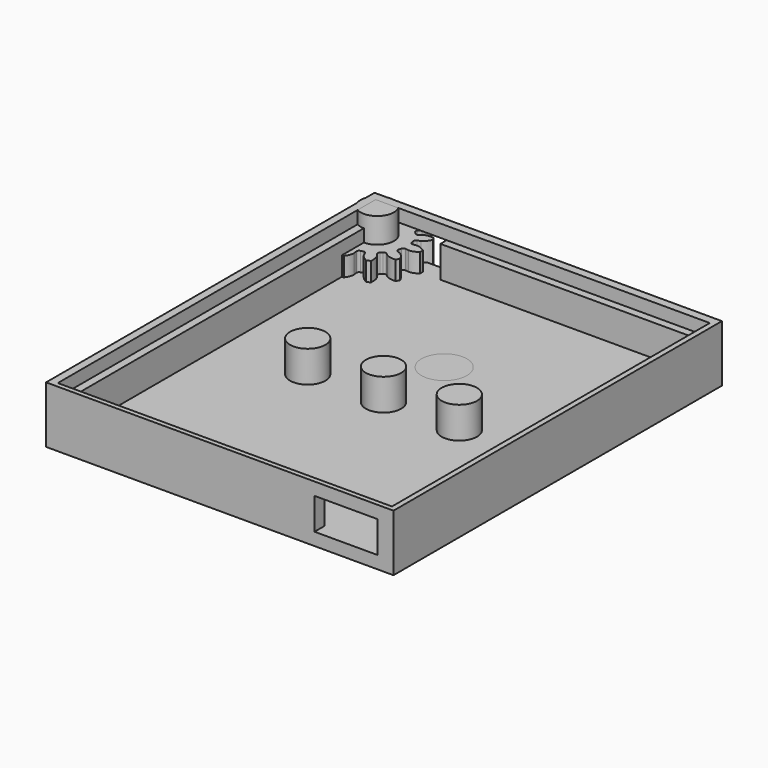
from build123d import *

# Parameters (mm, degrees)
SKETCH_W        = 50
SKETCH_H        = 60
PAD_DEPTH       = 2
SKETCH001_R     = 2.8
PAD001_DEPTH    = 5
SKETCH002_R     = 2.8
POCKET_DEPTH    = 10
PAD002_DEPTH    = 5
SKETCH003_R     = 2.65
PAD003_DEPTH    = 4
PAD004_DEPTH    = 5
SKETCH005_W     = 55
SKETCH005_H     = 65
PAD005_DEPTH    = 9
SKETCH006_W     = 50.4
SKETCH006_H     = 60.4
POCKET001_DEPTH = 7
SKETCH007_W     = 10
SKETCH007_H     = 5
POCKET002_DEPTH = 2.590111
SKETCH008_W     = 10
SKETCH008_H     = 5
POCKET003_DEPTH = 2.009889
SKETCH009_W     = 52.9
SKETCH009_H     = 62.9
POCKET004_DEPTH = 2
SKETCH010_R     = 3.6
POCKET005_DEPTH = 5


with BuildPart() as body:
    # Sketch → Pad (new body)
    with BuildSketch(Plane.XY):
        with Locations((25, -30)):
            Rectangle(SKETCH_W, SKETCH_H)
    extrude(amount=PAD_DEPTH)

    # Sketch001 (on Face6 of Pad) → Pad001 (join)
    with BuildSketch(Plane.XY.offset(2)):
        with Locations((13, -30)):
            Circle(SKETCH001_R)
        with Locations((25, -30)):
            Circle(SKETCH001_R)
        with Locations((37, -30)):
            Circle(SKETCH001_R)
        with Locations((25, -42)):
            Circle(SKETCH001_R)
    extrude(amount=PAD001_DEPTH)

    # Sketch002 (on Face11 of Pad001) → Pocket (cut)
    with BuildSketch(Plane.XY.offset(7)):
        with Locations((25, -42)):
            Circle(SKETCH002_R)
    extrude(amount=-POCKET_DEPTH, mode=Mode.SUBTRACT)


with BuildPart() as body001:
    # InvoluteGear → Pad002 (new body)
    with BuildSketch(Plane.XY):
        with BuildLine():
            Line((5.075568, -0.745328), (5.593622, -0.820636))
            add(Edge.make_bspline(
                [(5.593622, -0.820636), (5.662225, -0.823766), (5.937134, -0.826624), (6.422793, -0.700099), (6.993094, -0.308894)],
                knots=[0, 0, 0, 0, 0, 1, 1, 1, 1, 1], degree=4))
            ThreePointArc((6.993094, -0.308894), (6.999956, 0.000727), (6.993117, 0.310347))
            add(Edge.make_bspline(
                [(6.993117, 0.310347), (6.422793, 0.700099), (5.937134, 0.826624), (5.662225, 0.823766), (5.593622, 0.820636)],
                knots=[0, 0, 0, 0, 0, 1, 1, 1, 1, 1], degree=4))
            Line((5.593622, 0.820636), (5.075568, 0.745328))
            ThreePointArc((5.075568, 0.745328), (4.797245, 0.801779), (4.635779, 1.0354))
            ThreePointArc((4.635779, 1.0354), (4.588148, 1.22939), (4.532402, 1.421207))
            ThreePointArc((4.532402, 1.421207), (4.555425, 1.704262), (4.768234, 1.892311))
            Line((4.768234, 1.892311), (5.254537, 2.086119))
            add(Edge.make_bspline(
                [(5.254537, 2.086119), (5.315514, 2.117711), (5.555021, 2.25269), (5.912351, 2.605093), (6.210644, 3.229037)],
                knots=[0, 0, 0, 0, 0, 1, 1, 1, 1, 1], degree=4))
            ThreePointArc((6.210644, 3.229037), (6.061777, 3.500607), (5.901043, 3.765327))
            add(Edge.make_bspline(
                [(5.901043, 3.765327), (5.212252, 3.8177), (4.728397, 3.684444), (4.491748, 3.544515), (4.433901, 3.507503)],
                knots=[0, 0, 0, 0, 0, 1, 1, 1, 1, 1], degree=4))
            Line((4.433901, 3.507503), (4.022907, 3.183256))
            ThreePointArc((4.022907, 3.183256), (3.753647, 3.092983), (3.497002, 3.214572))
            ThreePointArc((3.497002, 3.214572), (3.358757, 3.358757), (3.214572, 3.497002))
            ThreePointArc((3.214572, 3.497002), (3.092983, 3.753647), (3.183256, 4.022907))
            Line((3.183256, 4.022907), (3.507503, 4.433901))
            add(Edge.make_bspline(
                [(3.507503, 4.433901), (3.544515, 4.491748), (3.684444, 4.728397), (3.8177, 5.212252), (3.764057, 5.90175)],
                knots=[0, 0, 0, 0, 0, 1, 1, 1, 1, 1], degree=4))
            ThreePointArc((3.764057, 5.90175), (3.499349, 6.062503), (3.22779, 6.211391))
            add(Edge.make_bspline(
                [(3.22779, 6.211391), (2.605093, 5.912351), (2.25269, 5.555021), (2.117711, 5.315514), (2.086119, 5.254537)],
                knots=[0, 0, 0, 0, 0, 1, 1, 1, 1, 1], degree=4))
            Line((2.086119, 5.254537), (1.892311, 4.768234))
            ThreePointArc((1.892311, 4.768234), (1.704262, 4.555425), (1.421207, 4.532402))
            ThreePointArc((1.421207, 4.532402), (1.22939, 4.588148), (1.0354, 4.635779))
            ThreePointArc((1.0354, 4.635779), (0.801779, 4.797245), (0.745328, 5.075568))
            Line((0.745328, 5.075568), (0.820636, 5.593622))
            add(Edge.make_bspline(
                [(0.820636, 5.593622), (0.823766, 5.662225), (0.826624, 5.937134), (0.700099, 6.422793), (0.308894, 6.993094)],
                knots=[0, 0, 0, 0, 0, 1, 1, 1, 1, 1], degree=4))
            ThreePointArc((0.308894, 6.993094), (-0.000727, 6.999956), (-0.310347, 6.993117))
            add(Edge.make_bspline(
                [(-0.310347, 6.993117), (-0.700099, 6.422793), (-0.826624, 5.937134), (-0.823766, 5.662225), (-0.820636, 5.593622)],
                knots=[0, 0, 0, 0, 0, 1, 1, 1, 1, 1], degree=4))
            Line((-0.820636, 5.593622), (-0.745328, 5.075568))
            ThreePointArc((-0.745328, 5.075568), (-0.801779, 4.797245), (-1.0354, 4.635779))
            ThreePointArc((-1.0354, 4.635779), (-1.22939, 4.588148), (-1.421207, 4.532402))
            ThreePointArc((-1.421207, 4.532402), (-1.704262, 4.555425), (-1.892311, 4.768234))
            Line((-1.892311, 4.768234), (-2.086119, 5.254537))
            add(Edge.make_bspline(
                [(-2.086119, 5.254537), (-2.117711, 5.315514), (-2.25269, 5.555021), (-2.605093, 5.912351), (-3.229037, 6.210644)],
                knots=[0, 0, 0, 0, 0, 1, 1, 1, 1, 1], degree=4))
            ThreePointArc((-3.229037, 6.210644), (-3.500607, 6.061777), (-3.765327, 5.901043))
            add(Edge.make_bspline(
                [(-3.765327, 5.901043), (-3.8177, 5.212252), (-3.684444, 4.728397), (-3.544515, 4.491748), (-3.507503, 4.433901)],
                knots=[0, 0, 0, 0, 0, 1, 1, 1, 1, 1], degree=4))
            Line((-3.507503, 4.433901), (-3.183256, 4.022907))
            ThreePointArc((-3.183256, 4.022907), (-3.092983, 3.753647), (-3.214572, 3.497002))
            ThreePointArc((-3.214572, 3.497002), (-3.358757, 3.358757), (-3.497002, 3.214572))
            ThreePointArc((-3.497002, 3.214572), (-3.753647, 3.092983), (-4.022907, 3.183256))
            Line((-4.022907, 3.183256), (-4.433901, 3.507503))
            add(Edge.make_bspline(
                [(-4.433901, 3.507503), (-4.491748, 3.544515), (-4.728397, 3.684444), (-5.212252, 3.8177), (-5.90175, 3.764057)],
                knots=[0, 0, 0, 0, 0, 1, 1, 1, 1, 1], degree=4))
            ThreePointArc((-5.90175, 3.764057), (-6.062503, 3.499349), (-6.211391, 3.22779))
            add(Edge.make_bspline(
                [(-6.211391, 3.22779), (-5.912351, 2.605093), (-5.555021, 2.25269), (-5.315514, 2.117711), (-5.254537, 2.086119)],
                knots=[0, 0, 0, 0, 0, 1, 1, 1, 1, 1], degree=4))
            Line((-5.254537, 2.086119), (-4.768234, 1.892311))
            ThreePointArc((-4.768234, 1.892311), (-4.555425, 1.704262), (-4.532402, 1.421207))
            ThreePointArc((-4.532402, 1.421207), (-4.588148, 1.22939), (-4.635779, 1.0354))
            ThreePointArc((-4.635779, 1.0354), (-4.797245, 0.801779), (-5.075568, 0.745328))
            Line((-5.075568, 0.745328), (-5.593622, 0.820636))
            add(Edge.make_bspline(
                [(-5.593622, 0.820636), (-5.662225, 0.823766), (-5.937134, 0.826624), (-6.422793, 0.700099), (-6.993094, 0.308894)],
                knots=[0, 0, 0, 0, 0, 1, 1, 1, 1, 1], degree=4))
            ThreePointArc((-6.993094, 0.308894), (-6.999956, -0.000727), (-6.993117, -0.310347))
            add(Edge.make_bspline(
                [(-6.993117, -0.310347), (-6.422793, -0.700099), (-5.937134, -0.826624), (-5.662225, -0.823766), (-5.593622, -0.820636)],
                knots=[0, 0, 0, 0, 0, 1, 1, 1, 1, 1], degree=4))
            Line((-5.593622, -0.820636), (-5.075568, -0.745328))
            ThreePointArc((-5.075568, -0.745328), (-4.797245, -0.801779), (-4.635779, -1.0354))
            ThreePointArc((-4.635779, -1.0354), (-4.588148, -1.22939), (-4.532402, -1.421207))
            ThreePointArc((-4.532402, -1.421207), (-4.555425, -1.704262), (-4.768234, -1.892311))
            Line((-4.768234, -1.892311), (-5.254537, -2.086119))
            add(Edge.make_bspline(
                [(-5.254537, -2.086119), (-5.315514, -2.117711), (-5.555021, -2.25269), (-5.912351, -2.605093), (-6.210644, -3.229037)],
                knots=[0, 0, 0, 0, 0, 1, 1, 1, 1, 1], degree=4))
            ThreePointArc((-6.210644, -3.229037), (-6.061777, -3.500607), (-5.901043, -3.765327))
            add(Edge.make_bspline(
                [(-5.901043, -3.765327), (-5.212252, -3.8177), (-4.728397, -3.684444), (-4.491748, -3.544515), (-4.433901, -3.507503)],
                knots=[0, 0, 0, 0, 0, 1, 1, 1, 1, 1], degree=4))
            Line((-4.433901, -3.507503), (-4.022907, -3.183256))
            ThreePointArc((-4.022907, -3.183256), (-3.753647, -3.092983), (-3.497002, -3.214572))
            ThreePointArc((-3.497002, -3.214572), (-3.358757, -3.358757), (-3.214572, -3.497002))
            ThreePointArc((-3.214572, -3.497002), (-3.092983, -3.753647), (-3.183256, -4.022907))
            Line((-3.183256, -4.022907), (-3.507503, -4.433901))
            add(Edge.make_bspline(
                [(-3.507503, -4.433901), (-3.544515, -4.491748), (-3.684444, -4.728397), (-3.8177, -5.212252), (-3.764057, -5.90175)],
                knots=[0, 0, 0, 0, 0, 1, 1, 1, 1, 1], degree=4))
            ThreePointArc((-3.764057, -5.90175), (-3.499349, -6.062503), (-3.22779, -6.211391))
            add(Edge.make_bspline(
                [(-3.22779, -6.211391), (-2.605093, -5.912351), (-2.25269, -5.555021), (-2.117711, -5.315514), (-2.086119, -5.254537)],
                knots=[0, 0, 0, 0, 0, 1, 1, 1, 1, 1], degree=4))
            Line((-2.086119, -5.254537), (-1.892311, -4.768234))
            ThreePointArc((-1.892311, -4.768234), (-1.704262, -4.555425), (-1.421207, -4.532402))
            ThreePointArc((-1.421207, -4.532402), (-1.22939, -4.588148), (-1.0354, -4.635779))
            ThreePointArc((-1.0354, -4.635779), (-0.801779, -4.797245), (-0.745328, -5.075568))
            Line((-0.745328, -5.075568), (-0.820636, -5.593622))
            add(Edge.make_bspline(
                [(-0.820636, -5.593622), (-0.823766, -5.662225), (-0.826624, -5.937134), (-0.700099, -6.422793), (-0.308894, -6.993094)],
                knots=[0, 0, 0, 0, 0, 1, 1, 1, 1, 1], degree=4))
            ThreePointArc((-0.308894, -6.993094), (0.000727, -6.999956), (0.310347, -6.993117))
            add(Edge.make_bspline(
                [(0.310347, -6.993117), (0.700099, -6.422793), (0.826624, -5.937134), (0.823766, -5.662225), (0.820636, -5.593622)],
                knots=[0, 0, 0, 0, 0, 1, 1, 1, 1, 1], degree=4))
            Line((0.820636, -5.593622), (0.745328, -5.075568))
            ThreePointArc((0.745328, -5.075568), (0.801779, -4.797245), (1.0354, -4.635779))
            ThreePointArc((1.0354, -4.635779), (1.22939, -4.588148), (1.421207, -4.532402))
            ThreePointArc((1.421207, -4.532402), (1.704262, -4.555425), (1.892311, -4.768234))
            Line((1.892311, -4.768234), (2.086119, -5.254537))
            add(Edge.make_bspline(
                [(2.086119, -5.254537), (2.117711, -5.315514), (2.25269, -5.555021), (2.605093, -5.912351), (3.229037, -6.210644)],
                knots=[0, 0, 0, 0, 0, 1, 1, 1, 1, 1], degree=4))
            ThreePointArc((3.229037, -6.210644), (3.500607, -6.061777), (3.765327, -5.901043))
            add(Edge.make_bspline(
                [(3.765327, -5.901043), (3.8177, -5.212252), (3.684444, -4.728397), (3.544515, -4.491748), (3.507503, -4.433901)],
                knots=[0, 0, 0, 0, 0, 1, 1, 1, 1, 1], degree=4))
            Line((3.507503, -4.433901), (3.183256, -4.022907))
            ThreePointArc((3.183256, -4.022907), (3.092983, -3.753647), (3.214572, -3.497002))
            ThreePointArc((3.214572, -3.497002), (3.358757, -3.358757), (3.497002, -3.214572))
            ThreePointArc((3.497002, -3.214572), (3.753647, -3.092983), (4.022907, -3.183256))
            Line((4.022907, -3.183256), (4.433901, -3.507503))
            add(Edge.make_bspline(
                [(4.433901, -3.507503), (4.491748, -3.544515), (4.728397, -3.684444), (5.212252, -3.8177), (5.90175, -3.764057)],
                knots=[0, 0, 0, 0, 0, 1, 1, 1, 1, 1], degree=4))
            ThreePointArc((5.90175, -3.764057), (6.062503, -3.499349), (6.211391, -3.22779))
            add(Edge.make_bspline(
                [(6.211391, -3.22779), (5.912351, -2.605093), (5.555021, -2.25269), (5.315514, -2.117711), (5.254537, -2.086119)],
                knots=[0, 0, 0, 0, 0, 1, 1, 1, 1, 1], degree=4))
            Line((5.254537, -2.086119), (4.768234, -1.892311))
            ThreePointArc((4.768234, -1.892311), (4.555425, -1.704262), (4.532402, -1.421207))
            ThreePointArc((4.532402, -1.421207), (4.588148, -1.22939), (4.635779, -1.0354))
            ThreePointArc((4.635779, -1.0354), (4.797245, -0.801779), (5.075568, -0.745328))
        make_face()
    extrude(amount=PAD002_DEPTH)

    # Sketch003 (on Face98 of Pad002) → Pad003 (join)
    with BuildSketch(Plane.XY.offset(5)):
        Circle(SKETCH003_R)
    extrude(amount=PAD003_DEPTH)

    # Sketch004 (on Face4 of Pad003) → Pad004 (join)
    with BuildSketch(Plane(origin=(0, 0, 0), x_dir=(1, 0, 0), z_dir=(0, 0, -1))):
        Polygon((-1.414508, -2.45), (1.414508, -2.45), (2.829016, 0), (1.414508, 2.45), (-1.414508, 2.45), (-2.829016, 0), align=None)
    extrude(amount=PAD004_DEPTH)


with BuildPart() as cover:
    # Sketch005 → Pad005 (new body)
    with BuildSketch(Plane.XY):
        with Locations((25, -29.909889)):
            Rectangle(SKETCH005_W, SKETCH005_H)
    extrude(amount=PAD005_DEPTH)

    # Sketch006 (on Face6 of Pad005) → Pocket001 (cut)
    with BuildSketch(Plane.XY.offset(9)):
        with Locations((25.2, -30.2)):
            Rectangle(SKETCH006_W, SKETCH006_H)
    extrude(amount=-POCKET001_DEPTH, mode=Mode.SUBTRACT)

    # Sketch007 (on Face2 of Pocket001) → Pocket002 (cut)
    with BuildSketch(Plane(origin=(0, 2.590111, 0), x_dir=(-1, 0, 0), z_dir=(0, 1, 0))):
        with Locations((-5, 4.5)):
            Rectangle(SKETCH007_W, SKETCH007_H)
    extrude(amount=-POCKET002_DEPTH, mode=Mode.SUBTRACT)

    # Sketch008 (on Face3 of Pocket002) → Pocket003 (cut)
    with BuildSketch(Plane.XZ.offset(62.409889)):
        with Locations((45, 4.5)):
            Rectangle(SKETCH008_W, SKETCH008_H)
    extrude(amount=-POCKET003_DEPTH, mode=Mode.SUBTRACT)

    # Sketch009 (on Face5 of Pocket003) → Pocket004 (cut)
    with BuildSketch(Plane.XY.offset(9)):
        with Locations((25.2, -30.2)):
            Rectangle(SKETCH009_W, SKETCH009_H)
    extrude(amount=-POCKET004_DEPTH, mode=Mode.SUBTRACT)

    # Sketch010 (on Face4 of Pocket004) → Pocket005 (cut)
    with BuildSketch(Plane(origin=(0, 0, 0), x_dir=(1, 0, 0), z_dir=(0, 0, -1))):
        with Locations((25, 18)):
            Circle(SKETCH010_R)
    extrude(amount=-POCKET005_DEPTH, mode=Mode.SUBTRACT)


solid = Compound([body.part, body001.part, cover.part])
